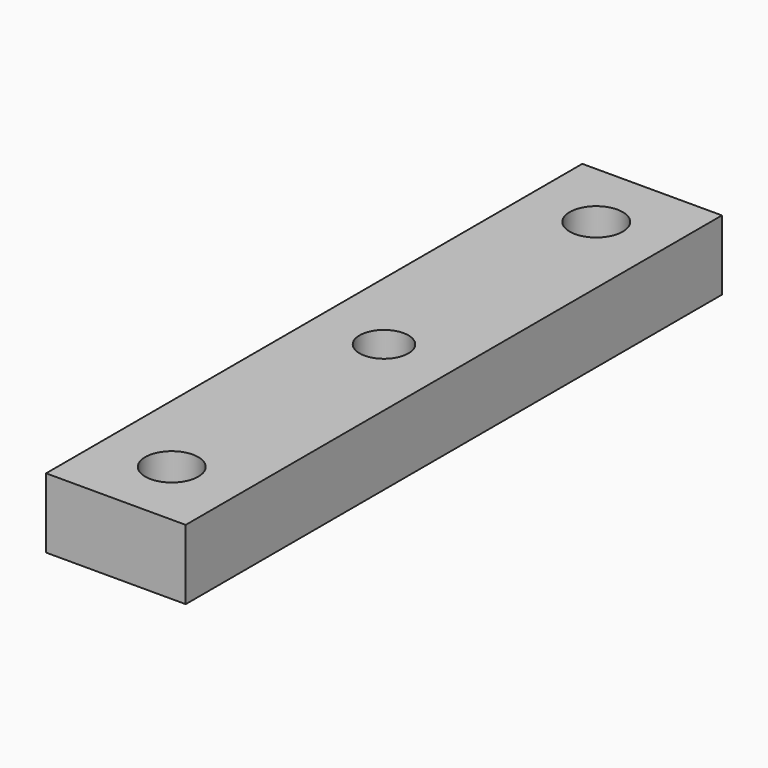
from build123d import *

# Parameters (mm, degrees)
CYLINDER066_R          = 1.9
CYLINDER066_DEPTH      = 10
CYLINDER067_R          = 1.9
CYLINDER067_DEPTH      = 10
CYLINDER065_R          = 1.75
CYLINDER065_DEPTH      = 10
BOX014_W               = 10
BOX014_H               = 5
BOX014_DEPTH           = 48
CUT005_PLACEMENT_ANGLE = 270


with BuildPart() as cylinder066:
    # Cylinder066 → Cylinder066 (new body)
    with BuildSketch(Plane(origin=(-115, 0, -50), x_dir=(1, 0, 0), z_dir=(0, -1, 0))):
        Circle(CYLINDER066_R)
    extrude(amount=CYLINDER066_DEPTH)


with BuildPart() as cylinder067:
    # Cylinder067 → Cylinder067 (new body)
    with BuildSketch(Plane(origin=(-115, 0, -12), x_dir=(1, 0, 0), z_dir=(0, -1, 0))):
        Circle(CYLINDER067_R)
    extrude(amount=CYLINDER067_DEPTH)


with BuildPart() as sidecuts001:
    # Cylinder065 → Cylinder065 (new body)
    with BuildSketch(Plane(origin=(-115, 0, -31), x_dir=(1, 0, 0), z_dir=(0, -1, 0))):
        Circle(CYLINDER065_R)
    extrude(amount=CYLINDER065_DEPTH)

    # Fusion024: union Cylinder066, Cylinder067
    add(cylinder066.part)
    add(cylinder067.part)


with BuildPart() as sidecuts001_1:
    # Fusion024 placement: moved
    add(sidecuts001.part.moved(Location((0, 9.8, 0))))


with BuildPart() as cornerbase001:
    # Box014 → Box014 (new body)
    with BuildSketch(Plane(origin=(-120, 0, -55), x_dir=(1, 0, 0), z_dir=(0, 0, 1))):
        with Locations((5, 2.5)):
            Rectangle(BOX014_W, BOX014_H)
    extrude(amount=BOX014_DEPTH)

    # Cut005: cut sideCuts001
    add(sidecuts001_1.part, mode=Mode.SUBTRACT)


with BuildPart() as cornerbase001_1:
    # Cut005 placement: moved
    add(cornerbase001.part.rotate(Axis((0, 0, 0), (1, 0, 0)), CUT005_PLACEMENT_ANGLE))


solid = cornerbase001_1.part
